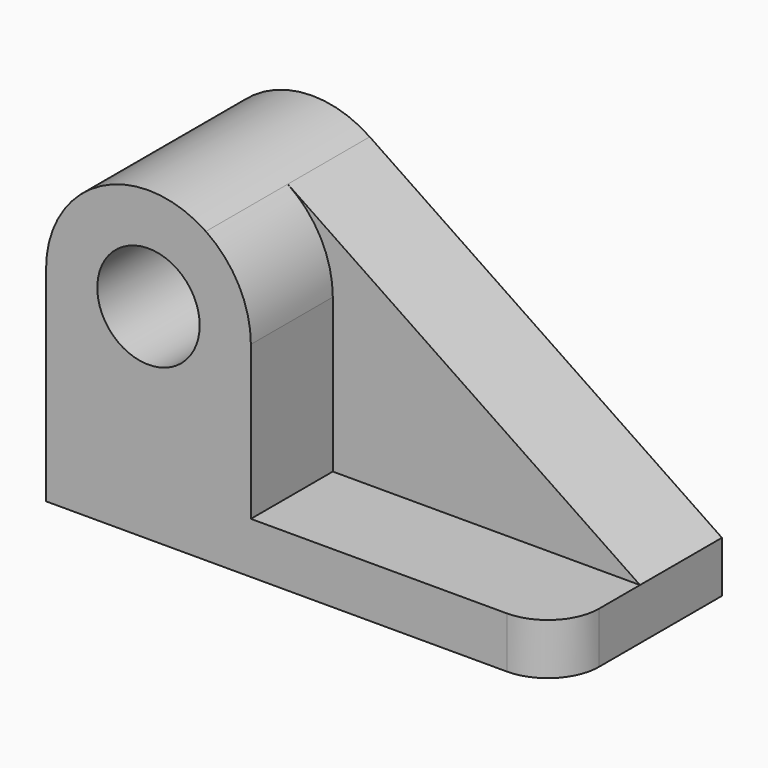
from build123d import *

# Parameters (mm, degrees)
F0_R     = 12.7
F1_DEPTH = 25.4
F2_R     = 12.7
F3_DEPTH = 25.4
F4_R     = 12.7


with BuildPart() as f1:
    # F0 (on Front) → F1 (new body)
    with BuildSketch(Plane.XZ):
        with BuildLine():
            Line((59.412749, 12.7), (-27.949378, 71.834328))
            ThreePointArc((-27.949378, 71.834328), (-54.09351, 73.236599), (-67.587251, 50.8))
            Line((-67.587251, 50.8), (-67.587251, 0))
            Line((-67.587251, 0), (59.412749, 0))
            Line((59.412749, 0), (59.412749, 12.7))
        make_face()
        with Locations((-42.187251, 50.8)):
            Circle(F0_R, mode=Mode.SUBTRACT)
    extrude(amount=F1_DEPTH)

    # F2 (on face) → F3 (join)
    with BuildSketch(Plane.XZ.offset(25.4)):
        with BuildLine():
            Line((-16.787251, 12.7), (-16.787251, 50.8))
            ThreePointArc((-16.787251, 50.8), (-19.750652, 62.706259), (-27.949378, 71.834328))
            ThreePointArc((-27.949378, 71.834328), (-54.09351, 73.236599), (-67.587251, 50.8))
            Line((-67.587251, 50.8), (-67.587251, 12.7))
            Line((-67.587251, 12.7), (-67.587251, 0))
            Line((-67.587251, 0), (59.412749, 0))
            Line((59.412749, 0), (59.412749, 12.7))
            Line((59.412749, 12.7), (-16.787251, 12.7))
        make_face()
        with Locations((-42.187251, 50.8)):
            Circle(F2_R, mode=Mode.SUBTRACT)
    extrude(amount=F3_DEPTH)

    # F4
    f4_edges = [f1.edges().sort_by_distance(p)[0] for p in [
        (59.412749, -50.8, 6.35),
    ]]
    fillet(f4_edges, radius=F4_R)


solid = f1.part
